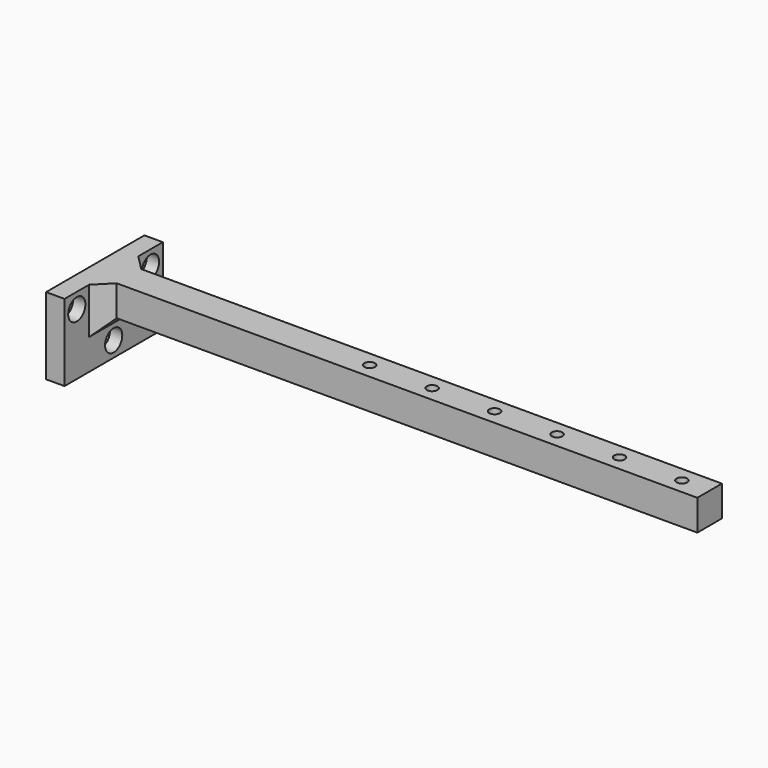
from build123d import *

# Parameters (mm, degrees)
CYLINDER002_R         = 3.5
CYLINDER002_DEPTH     = 10
CYLINDER001_R         = 1.5
CYLINDER001_DEPTH     = 10
FUSION001_PITCH_ANGLE = 90
ARRAY001_COUNT        = 4
BOX002_W              = 6
BOX002_H              = 40
BOX002_DEPTH          = 25
CYLINDER_R            = 1.725
CYLINDER_DEPTH        = 10
ARRAY_X_COUNT         = 6
ARRAY_X_PITCH         = 20.333333
BOX_W                 = 194
BOX_H                 = 10
BOX_DEPTH             = 10
CHAMFER_SIZE          = 5


with BuildPart() as cylinder002:
    # Cylinder002 → Cylinder002 (new body)
    with BuildSketch(Plane(origin=(15, -5, 8), x_dir=(1, 0, 0), z_dir=(0, 0, 1))):
        Circle(CYLINDER002_R)
    extrude(amount=CYLINDER002_DEPTH)


with BuildPart() as cone:
    # Cone → Cone (revolve)
    with BuildSketch(Plane(origin=(15, -5, 6), x_dir=(1, 0, 0), z_dir=(0, -1, 0))):
        Polygon((0, 0), (1.5, 0), (3.5, 2), (0, 2), align=None)
    revolve(axis=Axis((15, -5, 6), (0, 0, 1)))


with BuildPart() as array001:
    # Cylinder001 → Cylinder001 (new body)
    with BuildSketch(Plane(origin=(15, -5, 0), x_dir=(1, 0, 0), z_dir=(0, 0, 1))):
        Circle(CYLINDER001_R)
    extrude(amount=CYLINDER001_DEPTH)

    # Fusion001: union Cylinder002, Cone
    add(cylinder002.part)
    add(cone.part)


with BuildPart() as array001_1:
    # Fusion001 pitch: moved
    add(array001.part.rotate(Axis((0, 0, 0), (0, 1, 0)), FUSION001_PITCH_ANGLE))


with BuildPart() as array001_2:
    # Fusion001 placement: moved
    add(array001_1.part.moved(Location((0, -10, 15))))

    # Array001: Array001 ×4 about axis
    array001_axis = Axis((0, 0, 0), (1, 0, 0))


with BuildPart() as array001_3:
    add(array001_2.part)
    for i in range(1, ARRAY001_COUNT):
        add(array001_2.part.rotate(array001_axis, i * 360 / ARRAY001_COUNT))


with BuildPart() as array001_4:
    # Array001 placement: moved
    add(array001_3.part.moved(Location((-6, 0, 0))))


with BuildPart() as cut001:
    # Box002 → Box002 (new body)
    with BuildSketch(Plane(origin=(0, -20, -20), x_dir=(1, 0, 0), z_dir=(0, 0, 1))):
        with Locations((3, 20)):
            Rectangle(BOX002_W, BOX002_H)
    extrude(amount=BOX002_DEPTH)

    # Cut001: cut Array001
    add(array001_4.part, mode=Mode.SUBTRACT)


with BuildPart() as cut001_1:
    # Cut001 placement: moved
    add(cut001.part.moved(Location((-6, 0, 0))))


with BuildPart() as array:
    # Cylinder → Cylinder (new body)
    with BuildSketch(Plane(origin=(185, 5, 0), x_dir=(1, 0, 0), z_dir=(0, 0, 1))):
        Circle(CYLINDER_R)
    extrude(amount=CYLINDER_DEPTH)

    # Array X: Array ×6


with BuildPart() as array_1:
    add(array.part)
    with Locations(*[(-i * ARRAY_X_PITCH, 0, 0) for i in range(1, ARRAY_X_COUNT)]):
        add(array.part)


with BuildPart() as chamfer_body:
    # Box → Box (new body)
    with BuildSketch(Plane.XY):
        with Locations((97, 5)):
            Rectangle(BOX_W, BOX_H)
    extrude(amount=BOX_DEPTH)

    # Cut: cut Array
    add(array_1.part, mode=Mode.SUBTRACT)


with BuildPart() as chamfer_body_1:
    # Cut placement: moved
    add(chamfer_body.part.moved(Location((0, -5, -5))))

    # Fusion: union Cut001
    add(cut001_1.part)

    # Chamfer
    chamfer_edges = [chamfer_body_1.edges().sort_by_distance(p)[0] for p in [
        (0, -5, 0),
        (0, 5, 0),
        (0, 0, -5),
    ]]
    chamfer(chamfer_edges, length=CHAMFER_SIZE)


solid = chamfer_body_1.part
